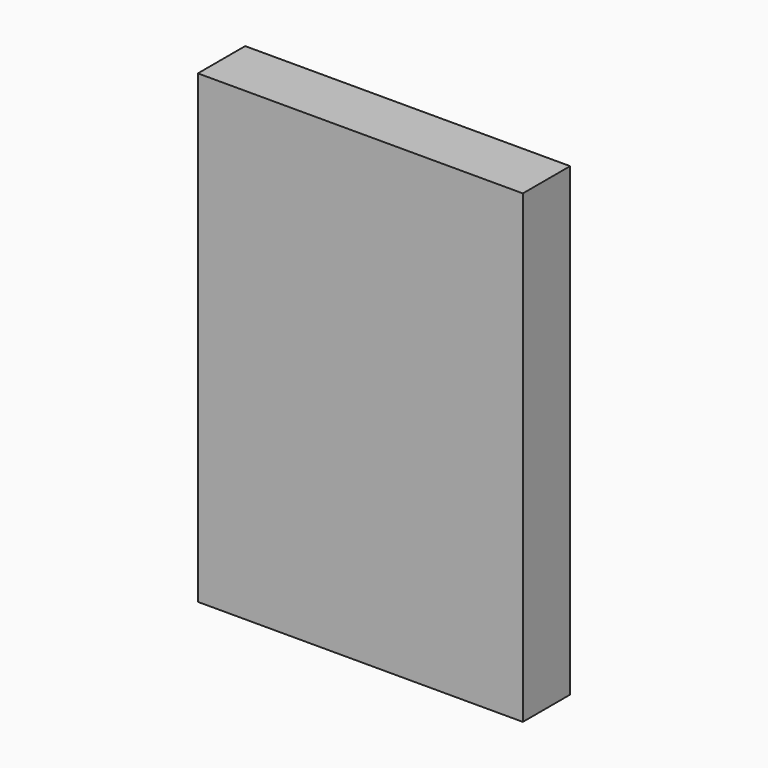
from build123d import *

# Parameters (mm, degrees)
F1_DEPTH = 35
F2_W     = 220
F2_H     = 315
F3_DEPTH = 5


with BuildPart() as f1:
    # F0 (on Front) → F1 (new body)
    with BuildSketch(Plane.XZ):
        Polygon((-110, -157.5), (110, -157.5), (110, 157.5), (-110, 157.5), (-110, 152.500004), (105.000004, 152.500004), (105.000004, -152.500004), (-110, -152.500004), align=None)
    extrude(amount=F1_DEPTH)

    # F2 (on face) → F3 (join)
    with BuildSketch(Plane.XZ.offset(35)):
        Rectangle(F2_W, F2_H)
    extrude(amount=F3_DEPTH)


solid = f1.part
